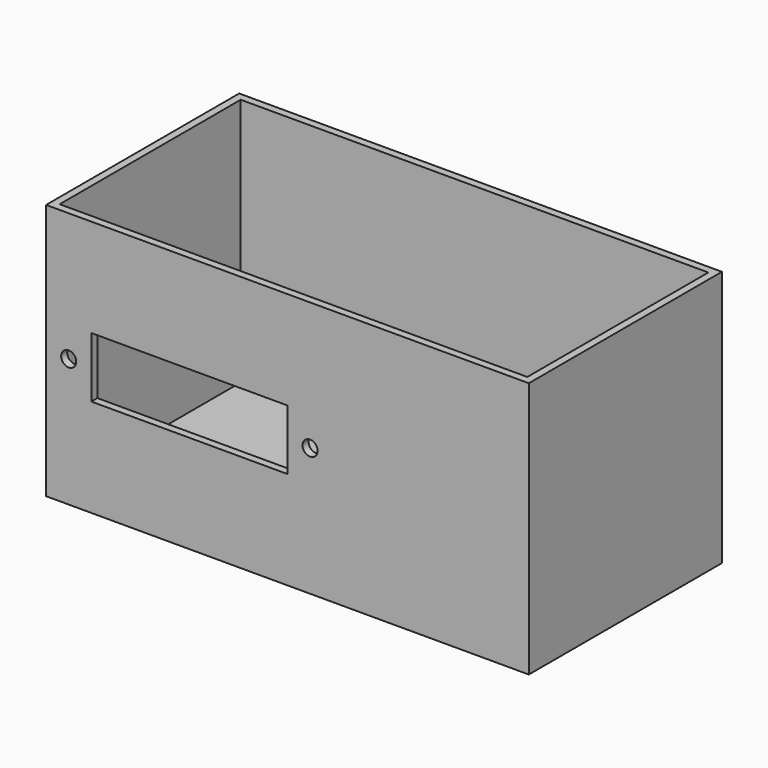
from build123d import *

# Parameters (mm, degrees)
F0_W     = 203.2
F0_H     = 101.6
F1_DEPTH = 107.95
F2_T     = -3.175
F3_W     = 82.55
F3_H     = 25.4
F4_DEPTH = 25.4
F6_R     = 3.175
F7_DEPTH = 25.4
F8_R     = 3.175
F9_DEPTH = 25.4


with BuildPart() as f1:
    # F0 (on Top) → F1 (new body)
    with BuildSketch(Plane.XY):
        with Locations((52.650332, 50.8)):
            Rectangle(F0_W, F0_H)
    extrude(amount=F1_DEPTH)

    # F2
    f2_openings = [f1.faces().sort_by_distance(p)[0] for p in [
        (52.650332, 50.8, 107.95),
    ]]
    offset(amount=F2_T, openings=f2_openings)

    # F3 (on Front) → F4 (cut)
    with BuildSketch(Plane.XZ):
        with Locations((11.375332, 53.975)):
            Rectangle(F3_W, F3_H)
    extrude(amount=-F4_DEPTH, mode=Mode.SUBTRACT)

    # F6 (on Front) → F7 (cut)
    with BuildSketch(Plane.XZ):
        with Locations((-39.424668, 53.975)):
            Circle(F6_R)
    extrude(amount=-F7_DEPTH, mode=Mode.SUBTRACT)

    # F8 (on Front) → F9 (cut)
    with BuildSketch(Plane.XZ):
        with Locations((62.175332, 53.975)):
            Circle(F8_R)
    extrude(amount=-F9_DEPTH, mode=Mode.SUBTRACT)


solid = f1.part
